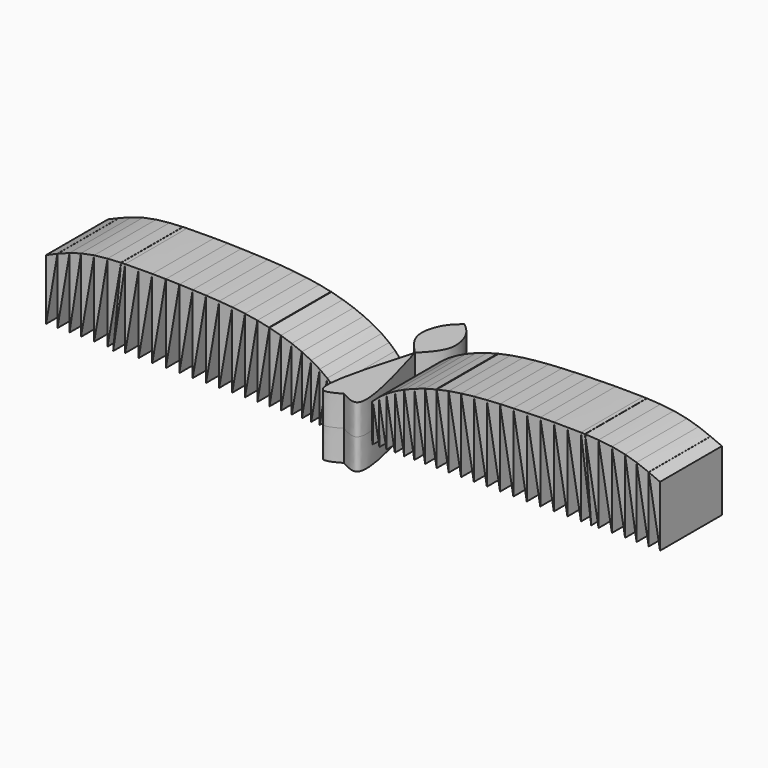
from build123d import *

# Parameters (mm, degrees)
F1_DEPTH      = 25.4
F3_DEPTH      = 10
F3_DEPTH_BACK = 10


with BuildPart() as f1:
    # F0 (on Front) → F1 (new body)
    with BuildSketch(Plane.XZ):
        with BuildLine():
            Line((-1.1763880996, -4.1211182252), (0, 0))
            add(Edge.make_bspline(
                [(0, 0), (-0.3668584504, 0.5580163387), (-0.7337169008, 1.1160326773), (-1.105749637, 1.6719235352)],
                knots=[0, 0, 0, 0, 0.0222381511, 0.0222381511, 0.0222381511, 0.0222381511], degree=3))
            Line((-1.105749637, 1.6719235352), (-1.1763880996, -4.1211182252))
        make_face()
        with BuildLine():
            Line((-100.7161065936, -4.1211182252), (-97.0060472617, 17.3621014063))
            add(Edge.make_bspline(
                [(-97.0060472617, 17.3621014063), (-98.2503658006, 16.8498970281), (-99.4832361971, 16.3153815871), (-100.7161065936, 15.7808661461)],
                knots=[0.9540792762, 0.9540792762, 0.9540792762, 0.9540792762, 1, 1, 1, 1], degree=3))
            Line((-100.7161065936, 15.7808661461), (-100.7161065936, -4.1211182252))
        make_face()
        with BuildLine():
            add(Edge.make_bspline(
                [(-97.0009558759, 17.3641970452), (-97.0026530258, 17.3634985404), (-97.0043501544, 17.3627999941), (-97.0060472617, 17.3621014063)],
                knots=[0.9540166456, 0.9540166456, 0.9540166456, 0.9540166456, 0.9540792762, 0.9540792762, 0.9540792762, 0.9540792762], degree=3))
            Line((-97.0009558759, 17.3641970452), (-97.0009558759, 17.3915832416))
            Line((-97.0009558759, 17.3915832416), (-97.0060472617, 17.3621014063))
        make_face()
        with BuildLine():
            Line((-97.0009558759, -4.1211182252), (-93.029095846, 18.878066891))
            add(Edge.make_bspline(
                [(-93.029095846, 18.878066891), (-94.3745357804, 18.4153184099), (-95.6940683223, 17.9020795139), (-97.0009558759, 17.3641970452)],
                knots=[0.9057880663, 0.9057880663, 0.9057880663, 0.9057880663, 0.9540166456, 0.9540166456, 0.9540166456, 0.9540166456], degree=3))
            Line((-97.0009558759, 17.3641970452), (-97.0009558759, -4.1211182252))
        make_face()
        with BuildLine():
            Line((-93.029095846, -4.1211182252), (-89.257389307, 20.0025010854))
            add(Edge.make_bspline(
                [(-89.257389307, 20.0025010854), (-90.5431419773, 19.6832662223), (-91.7969823305, 19.301838063), (-93.029095846, 18.878066891)],
                knots=[0.8616217807, 0.8616217807, 0.8616217807, 0.8616217807, 0.9057880663, 0.9057880663, 0.9057880663, 0.9057880663], degree=3))
            Line((-93.029095846, 18.878066891), (-93.029095846, -4.1211182252))
        make_face()
        with BuildLine():
            Line((-89.257389307, -4.1211182252), (-84.9467891064, 20.8395529036))
            add(Edge.make_bspline(
                [(-84.9467891064, 20.8395529036), (-86.4246845841, 20.6229885219), (-87.8598872507, 20.3494817979), (-89.257389307, 20.0025010854)],
                knots=[0.8136168445, 0.8136168445, 0.8136168445, 0.8136168445, 0.8616217807, 0.8616217807, 0.8616217807, 0.8616217807], degree=3))
            Line((-89.257389307, 20.0025010854), (-89.257389307, -4.1211182252))
        make_face()
        with BuildLine():
            Line((-84.9467891064, -4.1211182252), (-80.552936651, 21.3216278022))
            add(Edge.make_bspline(
                [(-80.552936651, 21.3216278022), (-82.0601374018, 21.2039167353), (-83.5232678165, 21.0481495281), (-84.9467891064, 20.8395529036)],
                knots=[0.7673780882, 0.7673780882, 0.7673780882, 0.7673780882, 0.8136168445, 0.8136168445, 0.8136168445, 0.8136168445], degree=3))
            Line((-84.9467891064, 20.8395529036), (-84.9467891064, -4.1211182252))
        make_face()
        with BuildLine():
            Line((-80.552936651, -4.1211182252), (-76.1166435706, 21.5673816256))
            add(Edge.make_bspline(
                [(-76.1166435706, 21.5673816256), (-77.6380701415, 21.511533431), (-79.1155446376, 21.4338868675), (-80.552936651, 21.3216278022)],
                knots=[0.7232809639, 0.7232809639, 0.7232809639, 0.7232809639, 0.7673780882, 0.7673780882, 0.7673780882, 0.7673780882], degree=3))
            Line((-80.552936651, 21.3216278022), (-80.552936651, -4.1211182252))
        make_face()
        with BuildLine():
            add(Edge.make_bspline(
                [(-76.1134197972, 21.5674999282), (-76.1144944103, 21.5674605049), (-76.1155690014, 21.5674210707), (-76.1166435706, 21.5673816256)],
                knots=[0.7232498185, 0.7232498185, 0.7232498185, 0.7232498185, 0.7232809639, 0.7232809639, 0.7232809639, 0.7232809639], degree=3))
            Line((-76.1134197972, 21.5674999282), (-76.1091553459, 21.6107424349))
            Line((-76.1091553459, 21.6107424349), (-76.1166435706, 21.5673816256))
        make_face()
        with BuildLine():
            Line((-78.7134319544, -4.7972151078), (-74.7832134366, 21.6107424349))
            add(Edge.make_bspline(
                [(-74.7832134366, 21.6107424349), (-75.2303487998, 21.5979418601), (-75.673719788, 21.5836307847), (-76.1134197972, 21.5674999282)],
                knots=[0.7105060456, 0.7105060456, 0.7105060456, 0.7105060456, 0.7232498185, 0.7232498185, 0.7232498185, 0.7232498185], degree=3))
            Line((-76.1134197972, 21.5674999282), (-78.7134319544, -4.7972151078))
        make_face()
        with BuildLine():
            Line((-70.3394321316, -4.1211182252), (-65.8823864649, 21.6875501539))
            add(Edge.make_bspline(
                [(-65.8823864649, 21.6875501539), (-68.9798437508, 21.7122171093), (-71.9567385127, 21.6916586551), (-74.7832134366, 21.6107424349)],
                knots=[0.6299488864, 0.6299488864, 0.6299488864, 0.6299488864, 0.7105060456, 0.7105060456, 0.7105060456, 0.7105060456], degree=3))
            Line((-74.7832134366, 21.6107424349), (-74.7832134366, -4.1211182252))
            Line((-74.7832134366, -4.1211182252), (-70.3394321316, 21.6107424349))
            Line((-70.3394321316, 21.6107424349), (-70.3394321316, -4.1211182252))
        make_face()
        with BuildLine():
            Line((-65.8823864649, -4.1211182252), (-61.4362583404, 21.6243317695))
            add(Edge.make_bspline(
                [(-61.4362583404, 21.6243317695), (-62.942886694, 21.65435461), (-64.4259640096, 21.6759517671), (-65.8823864649, 21.6875501539)],
                knots=[0.5920709612, 0.5920709612, 0.5920709612, 0.5920709612, 0.6299488864, 0.6299488864, 0.6299488864, 0.6299488864], degree=3))
            Line((-65.8823864649, 21.6875501539), (-65.8823864649, -4.1211182252))
        make_face()
        with BuildLine():
            Line((-61.4362583404, -4.1211182252), (-57.00897409, 21.5152157021))
            add(Edge.make_bspline(
                [(-57.00897409, 21.5152157021), (-58.5048294768, 21.5584989465), (-59.9815222371, 21.5953429946), (-61.4362583404, 21.6243317695)],
                knots=[0.5554976515, 0.5554976515, 0.5554976515, 0.5554976515, 0.5920709612, 0.5920709612, 0.5920709612, 0.5920709612], degree=3))
            Line((-61.4362583404, 21.6243317695), (-61.4362583404, -4.1211182252))
        make_face()
        with BuildLine():
            Line((-57.00897409, -4.1211182252), (-52.6063661013, 21.3723270032))
            add(Edge.make_bspline(
                [(-52.6063661013, 21.3723270032), (-52.9634714974, 21.3851474566), (-54.4436173617, 21.4367851552), (-55.9076817727, 21.4833493165), (-57.00897409, 21.5152157021)],
                knots=[0.5200360776, 0.5200360776, 0.5200360776, 0.5200360776, 0.5285713153, 0.5554976515, 0.5554976515, 0.5554976515, 0.5554976515], degree=3))
            Line((-57.00897409, 21.5152157021), (-57.00897409, -4.1211182252))
        make_face()
        with BuildLine():
            Line((-52.6063661013, -4.1211182252), (-48.2350782992, 21.1909664402))
            add(Edge.make_bspline(
                [(-48.2350782992, 21.1909664402), (-49.7024528221, 21.2621578532), (-51.1613636903, 21.3204499207), (-52.6063661013, 21.3723270032)],
                knots=[0.4854988257, 0.4854988257, 0.4854988257, 0.4854988257, 0.5200360776, 0.5200360776, 0.5200360776, 0.5200360776], degree=3))
            Line((-52.6063661013, 21.3723270032), (-52.6063661013, -4.1211182252))
        make_face()
        with BuildLine():
            Line((-48.2350782992, -4.1211182252), (-43.9073412734, 20.9387842495))
            add(Edge.make_bspline(
                [(-43.9073412734, 20.9387842495), (-45.3546246241, 21.0392545574), (-46.7989052358, 21.121288803), (-48.2350782992, 21.1909664402)],
                knots=[0.4516959552, 0.4516959552, 0.4516959552, 0.4516959552, 0.4854988257, 0.4854988257, 0.4854988257, 0.4854988257], degree=3))
            Line((-48.2350782992, 21.1909664402), (-48.2350782992, -4.1211182252))
        make_face()
        with BuildLine():
            Line((-43.9073412734, -4.1211182252), (-39.6409056802, 20.5838163031))
            add(Edge.make_bspline(
                [(-39.6409056802, 20.5838163031), (-41.0627247817, 20.7237430268), (-42.4864800783, 20.8401481658), (-43.9073412734, 20.9387842495)],
                knots=[0.4185102028, 0.4185102028, 0.4185102028, 0.4185102028, 0.4516959552, 0.4516959552, 0.4516959552, 0.4516959552], degree=3))
            Line((-43.9073412734, 20.9387842495), (-43.9073412734, -4.1211182252))
        make_face()
        with BuildLine():
            Line((-39.6409056802, -4.1211182252), (-35.4584443425, 20.0975606364))
            add(Edge.make_bspline(
                [(-35.4584443425, 20.0975606364), (-36.847669329, 20.2860134277), (-38.2433521693, 20.4462776502), (-39.6409056802, 20.5838163031)],
                knots=[0.3858908177, 0.3858908177, 0.3858908177, 0.3858908177, 0.4185102028, 0.4185102028, 0.4185102028, 0.4185102028], degree=3))
            Line((-39.6409056802, 20.5838163031), (-39.6409056802, -4.1211182252))
        make_face()
        with BuildLine():
            Line((-35.4584443425, -4.1211182252), (-31.3868971372, 19.4553087334))
            add(Edge.make_bspline(
                [(-31.3868971372, 19.4553087334), (-32.7349461088, 19.7000551576), (-34.0935785404, 19.9124122459), (-35.4584443425, 20.0975606364)],
                knots=[0.353843393, 0.353843393, 0.353843393, 0.353843393, 0.3858908177, 0.3858908177, 0.3858908177, 0.3858908177], degree=3))
            Line((-35.4584443425, 20.0975606364), (-35.4584443425, -4.1211182252))
        make_face()
        with BuildLine():
            Line((-31.3868971372, -4.1211182252), (-27.4566322, 18.6372091495))
            add(Edge.make_bspline(
                [(-27.4566322, 18.6372091495), (-27.6853733236, 18.6913344997), (-28.9850824173, 18.9920814509), (-30.2983407377, 19.2576747514), (-31.3868971372, 19.4553087334)],
                knots=[0.3224238633, 0.3224238633, 0.3224238633, 0.3224238633, 0.3279649346, 0.353843393, 0.353843393, 0.353843393, 0.353843393], degree=3))
            Line((-31.3868971372, 19.4553087334), (-31.3868971372, -4.1211182252))
        make_face()
        with BuildLine():
            add(Edge.make_bspline(
                [(-27.4291545909, 18.6307015581), (-27.4383130342, 18.632872497), (-27.4474722383, 18.6350416943), (-27.4566322, 18.6372091495)],
                knots=[0.3222019706, 0.3222019706, 0.3222019706, 0.3222019706, 0.3224238633, 0.3224238633, 0.3224238633, 0.3224238633], degree=3))
            Line((-27.4291545909, 18.6307015581), (-27.4291545909, 18.796319142))
            Line((-27.4291545909, 18.796319142), (-27.4566322, 18.6372091495))
        make_face()
        with BuildLine():
            Line((-27.4291545909, -4.1211182252), (-23.6730585041, 17.6286787373))
            add(Edge.make_bspline(
                [(-23.6730585041, 17.6286787373), (-24.9046574739, 17.9953561127), (-26.1595962961, 18.3297624796), (-27.4291545909, 18.6307015581)],
                knots=[0.291442835, 0.291442835, 0.291442835, 0.291442835, 0.3222019706, 0.3222019706, 0.3222019706, 0.3222019706], degree=3))
            Line((-27.4291545909, 18.6307015581), (-27.4291545909, -4.1211182252))
        make_face()
        with BuildLine():
            Line((-23.6730585041, -4.1211182252), (-20.119506324, 16.4558416365))
            add(Edge.make_bspline(
                [(-20.119506324, 16.4558416365), (-21.2759927957, 16.8771698242), (-22.4632653034, 17.2684934768), (-23.6730585041, 17.6286787373)],
                knots=[0.2612282977, 0.2612282977, 0.2612282977, 0.2612282977, 0.291442835, 0.291442835, 0.291442835, 0.291442835], degree=3))
            Line((-23.6730585041, 17.6286787373), (-23.6730585041, -4.1211182252))
        make_face()
        with BuildLine():
            Line((-20.119506324, -4.1211182252), (-16.7961237758, 15.1230368714))
            add(Edge.make_bspline(
                [(-16.7961237758, 15.1230368714), (-17.8687009608, 15.5957544613), (-18.9791366697, 16.0403850863), (-20.119506324, 16.4558416365)],
                knots=[0.2314348308, 0.2314348308, 0.2314348308, 0.2314348308, 0.2612282977, 0.2612282977, 0.2612282977, 0.2612282977], degree=3))
            Line((-20.119506324, 16.4558416365), (-20.119506324, -4.1211182252))
        make_face()
        with BuildLine():
            Line((-16.7961237758, -4.1211182252), (-13.729305475, 13.6373932247))
            add(Edge.make_bspline(
                [(-13.729305475, 13.6373932247), (-14.709338774, 14.1594374325), (-15.7341753139, 14.6550036851), (-16.7961237758, 15.1230368714)],
                knots=[0.2019366027, 0.2019366027, 0.2019366027, 0.2019366027, 0.2314348308, 0.2314348308, 0.2314348308, 0.2314348308], degree=3))
            Line((-16.7961237758, 15.1230368714), (-16.7961237758, -4.1211182252))
        make_face()
        with BuildLine():
            Line((-13.729305475, -4.1211182252), (-10.9449554548, 12.0017514281))
            add(Edge.make_bspline(
                [(-10.9449554548, 12.0017514281), (-11.8236806916, 12.572478577), (-12.7543217129, 13.1180388045), (-13.729305475, 13.6373932247)],
                knots=[0.1725903617, 0.1725903617, 0.1725903617, 0.1725903617, 0.2019366027, 0.2019366027, 0.2019366027, 0.2019366027], degree=3))
            Line((-13.729305475, 13.6373932247), (-13.729305475, -4.1211182252))
        make_face()
        with BuildLine():
            Line((-10.9449554548, -4.1211182252), (-8.4695109297, 10.2130240785))
            add(Edge.make_bspline(
                [(-8.4695109297, 10.2130240785), (-8.5274404209, 10.2598369496), (-9.2999848025, 10.8787848445), (-10.1315869679, 11.4734731243), (-10.9449554548, 12.0017514281)],
                knots=[0.1432112164, 0.1432112164, 0.1432112164, 0.1432112164, 0.1454267995, 0.1725903617, 0.1725903617, 0.1725903617, 0.1725903617], degree=3))
            Line((-10.9449554548, 12.0017514281), (-10.9449554548, -4.1211182252))
        make_face()
        with BuildLine():
            Line((-8.6442967877, -4.1211182252), (-6.4764666872, 8.431772714))
            add(Edge.make_bspline(
                [(-6.4764666872, 8.431772714), (-7.097294444, 9.0434003434), (-7.7584886258, 9.6384463493), (-8.4695109297, 10.2130240785)],
                knots=[0.1160173131, 0.1160173131, 0.1160173131, 0.1160173131, 0.1432112164, 0.1432112164, 0.1432112164, 0.1432112164], degree=3))
            Line((-8.4695109297, 10.2130240785), (-8.6442967877, -4.1211182252))
        make_face()
        with BuildLine():
            Line((-6.4764666872, -4.1211182252), (-4.6489323152, 6.4612791935))
            add(Edge.make_bspline(
                [(-4.6489323152, 6.4612791935), (-5.2211231915, 7.1333039001), (-5.8266852499, 7.7916204724), (-6.4764666872, 8.431772714)],
                knots=[0.0875551616, 0.0875551616, 0.0875551616, 0.0875551616, 0.1160173131, 0.1160173131, 0.1160173131, 0.1160173131], degree=3))
            Line((-6.4764666872, 8.431772714), (-6.4764666872, -4.1211182252))
        make_face()
        with BuildLine():
            Line((-4.7779706192, -4.1211182252), (-3.2518698427, 4.7158181222))
            add(Edge.make_bspline(
                [(-3.2518698427, 4.7158181222), (-3.6977926572, 5.3057573658), (-4.1612411789, 5.8884974412), (-4.6489323152, 6.4612791935)],
                knots=[0.0632962306, 0.0632962306, 0.0632962306, 0.0632962306, 0.0875551616, 0.0875551616, 0.0875551616, 0.0875551616], degree=3))
            Line((-4.6489323152, 6.4612791935), (-4.7779706192, -4.1211182252))
        make_face()
        with BuildLine():
            Line((-3.3596245635, -4.1211182252), (-2.1061829525, 3.1369763267))
            add(Edge.make_bspline(
                [(-2.1061829525, 3.1369763267), (-2.4774837797, 3.667609033), (-2.8578346028, 4.1945242036), (-3.2518698427, 4.7158181222)],
                knots=[0.0418600686, 0.0418600686, 0.0418600686, 0.0418600686, 0.0632962306, 0.0632962306, 0.0632962306, 0.0632962306], degree=3))
            Line((-3.2518698427, 4.7158181222), (-3.3596245635, -4.1211182252))
        make_face()
        with BuildLine():
            Line((-2.1061829525, -4.1211182252), (-1.105749637, 1.6719235352))
            add(Edge.make_bspline(
                [(-1.105749637, 1.6719235352), (-1.4340141437, 2.1624159583), (-1.7663070816, 2.651253592), (-2.1061829525, 3.1369763267)],
                knots=[0.0222381511, 0.0222381511, 0.0222381511, 0.0222381511, 0.0418600686, 0.0418600686, 0.0418600686, 0.0418600686], degree=3))
            Line((-2.1061829525, 3.1369763267), (-2.1061829525, -4.1211182252))
        make_face()
        with BuildLine():
            add(Edge.make_bspline(
                [(97.0060472617, 17.3621014063), (98.2503658006, 16.8498970281), (99.4832361971, 16.3153815871), (100.7161065936, 15.7808661461)],
                knots=[0.9540792762, 0.9540792762, 0.9540792762, 0.9540792762, 1, 1, 1, 1], degree=3))
            Line((97.0060472617, 17.3621014063), (100.7161065936, -4.1211182252))
            Line((100.7161065936, -4.1211182252), (100.7161065936, 15.7808661461))
        make_face()
        with BuildLine():
            Line((97.0009558759, 17.3915832416), (97.0009558759, 17.3641970452))
            add(Edge.make_bspline(
                [(97.0009558759, 17.3641970452), (97.0026530258, 17.3634985404), (97.0043501544, 17.3627999941), (97.0060472617, 17.3621014063)],
                knots=[0.9540166456, 0.9540166456, 0.9540166456, 0.9540166456, 0.9540792762, 0.9540792762, 0.9540792762, 0.9540792762], degree=3))
            Line((97.0060472617, 17.3621014063), (97.0009558759, 17.3915832416))
        make_face()
        with BuildLine():
            add(Edge.make_bspline(
                [(93.029095846, 18.878066891), (94.3745357804, 18.4153184099), (95.6940683223, 17.9020795139), (97.0009558759, 17.3641970452)],
                knots=[0.9057880663, 0.9057880663, 0.9057880663, 0.9057880663, 0.9540166456, 0.9540166456, 0.9540166456, 0.9540166456], degree=3))
            Line((93.029095846, 18.878066891), (97.0009558759, -4.1211182252))
            Line((97.0009558759, -4.1211182252), (97.0009558759, 17.3641970452))
        make_face()
        with BuildLine():
            add(Edge.make_bspline(
                [(89.257389307, 20.0025010854), (90.5431419773, 19.6832662223), (91.7969823305, 19.301838063), (93.029095846, 18.878066891)],
                knots=[0.8616217807, 0.8616217807, 0.8616217807, 0.8616217807, 0.9057880663, 0.9057880663, 0.9057880663, 0.9057880663], degree=3))
            Line((89.257389307, 20.0025010854), (93.029095846, -4.1211182252))
            Line((93.029095846, -4.1211182252), (93.029095846, 18.878066891))
        make_face()
        with BuildLine():
            add(Edge.make_bspline(
                [(84.9467891064, 20.8395529036), (86.4246845841, 20.6229885219), (87.8598872507, 20.3494817979), (89.257389307, 20.0025010854)],
                knots=[0.8136168445, 0.8136168445, 0.8136168445, 0.8136168445, 0.8616217807, 0.8616217807, 0.8616217807, 0.8616217807], degree=3))
            Line((84.9467891064, 20.8395529036), (89.257389307, -4.1211182252))
            Line((89.257389307, -4.1211182252), (89.257389307, 20.0025010854))
        make_face()
        with BuildLine():
            add(Edge.make_bspline(
                [(80.552936651, 21.3216278022), (82.0601374018, 21.2039167353), (83.5232678165, 21.0481495281), (84.9467891064, 20.8395529036)],
                knots=[0.7673780882, 0.7673780882, 0.7673780882, 0.7673780882, 0.8136168445, 0.8136168445, 0.8136168445, 0.8136168445], degree=3))
            Line((80.552936651, 21.3216278022), (84.9467891064, -4.1211182252))
            Line((84.9467891064, -4.1211182252), (84.9467891064, 20.8395529036))
        make_face()
        with BuildLine():
            add(Edge.make_bspline(
                [(76.1166435706, 21.5673816256), (77.6380701415, 21.511533431), (79.1155446376, 21.4338868675), (80.552936651, 21.3216278022)],
                knots=[0.7232809639, 0.7232809639, 0.7232809639, 0.7232809639, 0.7673780882, 0.7673780882, 0.7673780882, 0.7673780882], degree=3))
            Line((76.1166435706, 21.5673816256), (80.552936651, -4.1211182252))
            Line((80.552936651, -4.1211182252), (80.552936651, 21.3216278022))
        make_face()
        with BuildLine():
            Line((76.1091553459, 21.6107424349), (76.1125956286, 21.5675301614))
            add(Edge.make_bspline(
                [(76.1125956286, 21.5675301614), (76.1139449772, 21.5674806666), (76.1152942912, 21.5674311547), (76.1166435706, 21.5673816256)],
                knots=[0.7232418563, 0.7232418563, 0.7232418563, 0.7232418563, 0.7232809639, 0.7232809639, 0.7232809639, 0.7232809639], degree=3))
            Line((76.1166435706, 21.5673816256), (76.1091553459, 21.6107424349))
        make_face()
        with BuildLine():
            add(Edge.make_bspline(
                [(74.7832134366, 21.6107424349), (75.2300694328, 21.5979498578), (75.6731657564, 21.583648667), (76.1125956286, 21.5675301614)],
                knots=[0.7105060456, 0.7105060456, 0.7105060456, 0.7105060456, 0.7232418563, 0.7232418563, 0.7232418563, 0.7232418563], degree=3))
            Line((74.7832134366, 21.6107424349), (78.1577602029, -4.1211182252))
            Line((78.1577602029, -4.1211182252), (76.1125956286, 21.5675301614))
        make_face()
        with BuildLine():
            add(Edge.make_bspline(
                [(65.8823864649, 21.6875501539), (68.9798437508, 21.7122171093), (71.9567385127, 21.6916586551), (74.7832134366, 21.6107424349)],
                knots=[0.6299488864, 0.6299488864, 0.6299488864, 0.6299488864, 0.7105060456, 0.7105060456, 0.7105060456, 0.7105060456], degree=3))
            Line((65.8823864649, 21.6875501539), (70.3394321316, -4.1211182252))
            Line((70.3394321316, -4.1211182252), (70.3394321316, 21.6107424349))
            Line((70.3394321316, 21.6107424349), (74.7832134366, -4.1211182252))
            Line((74.7832134366, -4.1211182252), (74.7832134366, 21.6107424349))
        make_face()
        with BuildLine():
            add(Edge.make_bspline(
                [(61.4362583404, 21.6243317695), (62.942886694, 21.65435461), (64.4259640096, 21.6759517671), (65.8823864649, 21.6875501539)],
                knots=[0.5920709612, 0.5920709612, 0.5920709612, 0.5920709612, 0.6299488864, 0.6299488864, 0.6299488864, 0.6299488864], degree=3))
            Line((61.4362583404, 21.6243317695), (65.8823864649, -4.1211182252))
            Line((65.8823864649, -4.1211182252), (65.8823864649, 21.6875501539))
        make_face()
        with BuildLine():
            add(Edge.make_bspline(
                [(57.00897409, 21.5152157021), (58.5048294768, 21.5584989465), (59.9815222371, 21.5953429946), (61.4362583404, 21.6243317695)],
                knots=[0.5554976515, 0.5554976515, 0.5554976515, 0.5554976515, 0.5920709612, 0.5920709612, 0.5920709612, 0.5920709612], degree=3))
            Line((57.00897409, 21.5152157021), (61.4362583404, -4.1211182252))
            Line((61.4362583404, -4.1211182252), (61.4362583404, 21.6243317695))
        make_face()
        with BuildLine():
            add(Edge.make_bspline(
                [(52.6063661013, 21.3723270032), (52.9634714974, 21.3851474566), (54.4436173617, 21.4367851552), (55.9076817727, 21.4833493165), (57.00897409, 21.5152157021)],
                knots=[0.5200360776, 0.5200360776, 0.5200360776, 0.5200360776, 0.5285713153, 0.5554976515, 0.5554976515, 0.5554976515, 0.5554976515], degree=3))
            Line((52.6063661013, 21.3723270032), (57.00897409, -4.1211182252))
            Line((57.00897409, -4.1211182252), (57.00897409, 21.5152157021))
        make_face()
        with BuildLine():
            add(Edge.make_bspline(
                [(48.2350782992, 21.1909664402), (49.7024528221, 21.2621578532), (51.1613636903, 21.3204499207), (52.6063661013, 21.3723270032)],
                knots=[0.4854988257, 0.4854988257, 0.4854988257, 0.4854988257, 0.5200360776, 0.5200360776, 0.5200360776, 0.5200360776], degree=3))
            Line((48.2350782992, 21.1909664402), (52.6063661013, -4.1211182252))
            Line((52.6063661013, -4.1211182252), (52.6063661013, 21.3723270032))
        make_face()
        with BuildLine():
            add(Edge.make_bspline(
                [(43.9073412734, 20.9387842495), (45.3546246241, 21.0392545574), (46.7989052358, 21.121288803), (48.2350782992, 21.1909664402)],
                knots=[0.4516959552, 0.4516959552, 0.4516959552, 0.4516959552, 0.4854988257, 0.4854988257, 0.4854988257, 0.4854988257], degree=3))
            Line((43.9073412734, 20.9387842495), (48.2350782992, -4.1211182252))
            Line((48.2350782992, -4.1211182252), (48.2350782992, 21.1909664402))
        make_face()
        with BuildLine():
            add(Edge.make_bspline(
                [(39.6409056802, 20.5838163031), (41.0627247817, 20.7237430268), (42.4864800783, 20.8401481658), (43.9073412734, 20.9387842495)],
                knots=[0.4185102028, 0.4185102028, 0.4185102028, 0.4185102028, 0.4516959552, 0.4516959552, 0.4516959552, 0.4516959552], degree=3))
            Line((39.6409056802, 20.5838163031), (43.9073412734, -4.1211182252))
            Line((43.9073412734, -4.1211182252), (43.9073412734, 20.9387842495))
        make_face()
        with BuildLine():
            add(Edge.make_bspline(
                [(35.4584443425, 20.0975606364), (36.847669329, 20.2860134277), (38.2433521693, 20.4462776502), (39.6409056802, 20.5838163031)],
                knots=[0.3858908177, 0.3858908177, 0.3858908177, 0.3858908177, 0.4185102028, 0.4185102028, 0.4185102028, 0.4185102028], degree=3))
            Line((35.4584443425, 20.0975606364), (39.6409056802, -4.1211182252))
            Line((39.6409056802, -4.1211182252), (39.6409056802, 20.5838163031))
        make_face()
        with BuildLine():
            add(Edge.make_bspline(
                [(31.3868971372, 19.4553087334), (32.7349461088, 19.7000551576), (34.0935785404, 19.9124122459), (35.4584443425, 20.0975606364)],
                knots=[0.353843393, 0.353843393, 0.353843393, 0.353843393, 0.3858908177, 0.3858908177, 0.3858908177, 0.3858908177], degree=3))
            Line((31.3868971372, 19.4553087334), (35.4584443425, -4.1211182252))
            Line((35.4584443425, -4.1211182252), (35.4584443425, 20.0975606364))
        make_face()
        with BuildLine():
            add(Edge.make_bspline(
                [(27.4566322, 18.6372091495), (27.6853733236, 18.6913344997), (28.9850824173, 18.9920814509), (30.2983407377, 19.2576747514), (31.3868971372, 19.4553087334)],
                knots=[0.3224238633, 0.3224238633, 0.3224238633, 0.3224238633, 0.3279649346, 0.353843393, 0.353843393, 0.353843393, 0.353843393], degree=3))
            Line((27.4566322, 18.6372091495), (31.3868971372, -4.1211182252))
            Line((31.3868971372, -4.1211182252), (31.3868971372, 19.4553087334))
        make_face()
        with BuildLine():
            Line((27.4291545909, 18.796319142), (27.4291545909, 18.6307015581))
            add(Edge.make_bspline(
                [(27.4291545909, 18.6307015581), (27.4383130342, 18.632872497), (27.4474722383, 18.6350416943), (27.4566322, 18.6372091495)],
                knots=[0.3222019706, 0.3222019706, 0.3222019706, 0.3222019706, 0.3224238633, 0.3224238633, 0.3224238633, 0.3224238633], degree=3))
            Line((27.4566322, 18.6372091495), (27.4291545909, 18.796319142))
        make_face()
        with BuildLine():
            add(Edge.make_bspline(
                [(23.6730585041, 17.6286787373), (24.9046574739, 17.9953561127), (26.1595962961, 18.3297624796), (27.4291545909, 18.6307015581)],
                knots=[0.291442835, 0.291442835, 0.291442835, 0.291442835, 0.3222019706, 0.3222019706, 0.3222019706, 0.3222019706], degree=3))
            Line((23.6730585041, 17.6286787373), (27.4291545909, -4.1211182252))
            Line((27.4291545909, -4.1211182252), (27.4291545909, 18.6307015581))
        make_face()
        with BuildLine():
            add(Edge.make_bspline(
                [(20.119506324, 16.4558416365), (21.2759927957, 16.8771698242), (22.4632653034, 17.2684934768), (23.6730585041, 17.6286787373)],
                knots=[0.2612282977, 0.2612282977, 0.2612282977, 0.2612282977, 0.291442835, 0.291442835, 0.291442835, 0.291442835], degree=3))
            Line((20.119506324, 16.4558416365), (23.6730585041, -4.1211182252))
            Line((23.6730585041, -4.1211182252), (23.6730585041, 17.6286787373))
        make_face()
        with BuildLine():
            add(Edge.make_bspline(
                [(16.7961237758, 15.1230368714), (17.8687009608, 15.5957544613), (18.9791366697, 16.0403850863), (20.119506324, 16.4558416365)],
                knots=[0.2314348308, 0.2314348308, 0.2314348308, 0.2314348308, 0.2612282977, 0.2612282977, 0.2612282977, 0.2612282977], degree=3))
            Line((16.7961237758, 15.1230368714), (20.119506324, -4.1211182252))
            Line((20.119506324, -4.1211182252), (20.119506324, 16.4558416365))
        make_face()
        with BuildLine():
            add(Edge.make_bspline(
                [(13.729305475, 13.6373932247), (14.709338774, 14.1594374325), (15.7341753139, 14.6550036851), (16.7961237758, 15.1230368714)],
                knots=[0.2019366027, 0.2019366027, 0.2019366027, 0.2019366027, 0.2314348308, 0.2314348308, 0.2314348308, 0.2314348308], degree=3))
            Line((13.729305475, 13.6373932247), (16.7961237758, -4.1211182252))
            Line((16.7961237758, -4.1211182252), (16.7961237758, 15.1230368714))
        make_face()
        with BuildLine():
            add(Edge.make_bspline(
                [(10.9449554548, 12.0017514281), (11.8236806916, 12.572478577), (12.7543217129, 13.1180388045), (13.729305475, 13.6373932247)],
                knots=[0.1725903617, 0.1725903617, 0.1725903617, 0.1725903617, 0.2019366027, 0.2019366027, 0.2019366027, 0.2019366027], degree=3))
            Line((10.9449554548, 12.0017514281), (13.729305475, -4.1211182252))
            Line((13.729305475, -4.1211182252), (13.729305475, 13.6373932247))
        make_face()
        with BuildLine():
            add(Edge.make_bspline(
                [(8.4695109297, 10.2130240785), (8.5274404209, 10.2598369496), (9.2999848025, 10.8787848445), (10.1315869679, 11.4734731243), (10.9449554548, 12.0017514281)],
                knots=[0.1432112164, 0.1432112164, 0.1432112164, 0.1432112164, 0.1454267995, 0.1725903617, 0.1725903617, 0.1725903617, 0.1725903617], degree=3))
            Line((8.4695109297, 10.2130240785), (10.9449554548, -4.1211182252))
            Line((10.9449554548, -4.1211182252), (10.9449554548, 12.0017514281))
        make_face()
        with BuildLine():
            add(Edge.make_bspline(
                [(6.4764666872, 8.431772714), (7.097294444, 9.0434003434), (7.7584886258, 9.6384463493), (8.4695109297, 10.2130240785)],
                knots=[0.1160173131, 0.1160173131, 0.1160173131, 0.1160173131, 0.1432112164, 0.1432112164, 0.1432112164, 0.1432112164], degree=3))
            Line((6.4764666872, 8.431772714), (8.6442967877, -4.1211182252))
            Line((8.6442967877, -4.1211182252), (8.4695109297, 10.2130240785))
        make_face()
        with BuildLine():
            add(Edge.make_bspline(
                [(4.6489323152, 6.4612791935), (5.2211231915, 7.1333039001), (5.8266852499, 7.7916204724), (6.4764666872, 8.431772714)],
                knots=[0.0875551616, 0.0875551616, 0.0875551616, 0.0875551616, 0.1160173131, 0.1160173131, 0.1160173131, 0.1160173131], degree=3))
            Line((4.6489323152, 6.4612791935), (6.4764666872, -4.1211182252))
            Line((6.4764666872, -4.1211182252), (6.4764666872, 8.431772714))
        make_face()
        with BuildLine():
            add(Edge.make_bspline(
                [(3.2518698427, 4.7158181222), (3.6977926572, 5.3057573658), (4.1612411789, 5.8884974412), (4.6489323152, 6.4612791935)],
                knots=[0.0632962306, 0.0632962306, 0.0632962306, 0.0632962306, 0.0875551616, 0.0875551616, 0.0875551616, 0.0875551616], degree=3))
            Line((3.2518698427, 4.7158181222), (4.7779706192, -4.1211182252))
            Line((4.7779706192, -4.1211182252), (4.6489323152, 6.4612791935))
        make_face()
        with BuildLine():
            add(Edge.make_bspline(
                [(2.1061829525, 3.1369763267), (2.4774837797, 3.667609033), (2.8578346028, 4.1945242036), (3.2518698427, 4.7158181222)],
                knots=[0.0418600686, 0.0418600686, 0.0418600686, 0.0418600686, 0.0632962306, 0.0632962306, 0.0632962306, 0.0632962306], degree=3))
            Line((2.1061829525, 3.1369763267), (3.3596245635, -4.1211182252))
            Line((3.3596245635, -4.1211182252), (3.2518698427, 4.7158181222))
        make_face()
        with BuildLine():
            add(Edge.make_bspline(
                [(1.105749637, 1.6719235352), (1.4340141437, 2.1624159583), (1.7663070816, 2.651253592), (2.1061829525, 3.1369763267)],
                knots=[0.0222381511, 0.0222381511, 0.0222381511, 0.0222381511, 0.0418600686, 0.0418600686, 0.0418600686, 0.0418600686], degree=3))
            Line((1.105749637, 1.6719235352), (2.1061829525, -4.1211182252))
            Line((2.1061829525, -4.1211182252), (2.1061829525, 3.1369763267))
        make_face()
        with BuildLine():
            add(Edge.make_bspline(
                [(0, 0), (0.3668584504, 0.5580163387), (0.7337169008, 1.1160326773), (1.105749637, 1.6719235352)],
                knots=[0, 0, 0, 0, 0.0222381511, 0.0222381511, 0.0222381511, 0.0222381511], degree=3))
            Line((0, 0), (1.1763880996, -4.1211182252))
            Line((1.1763880996, -4.1211182252), (1.105749637, 1.6719235352))
        make_face()
    extrude(amount=F1_DEPTH)


with BuildPart() as f3:
    # F2 (on Top) → F3 (new body, two sides)
    with BuildSketch(Plane.XY) as f3_sk:
        with BuildLine():
            add(Edge.make_bspline(
                [(0, 0), (-2.4010427026, 2.5022189243), (-7.0458339937, 7.3427345284), (-4.2768858597, 16.6841573517), (-1.3181961856, 19.1756073384), (0, 20.2856324613)],
                knots=[0, 0, 0, 0, 0.3723860343, 0.7203767794, 1, 1, 1, 1], degree=3))
            Line((0, 0), (0, 20.2856324613))
        make_face()
        with BuildLine():
            Line((0, 20.2856324613), (0, 0))
            add(Edge.make_bspline(
                [(0, 0), (2.4010427026, 2.5022189243), (7.0458339937, 7.3427345284), (4.2768858597, 16.6841573517), (1.3181961856, 19.1756073384), (0, 20.2856324613)],
                knots=[0, 0, 0, 0, 0.3723860343, 0.7203767794, 1, 1, 1, 1], degree=3))
        make_face()
    extrude(amount=F3_DEPTH)
    extrude(f3_sk.sketch, amount=-F3_DEPTH_BACK)


with BuildPart() as f3b:
    # F2 (on Top) → F3, piece 2 (new body, two sides)
    with BuildSketch(Plane.XY) as f3_2_sk:
        with BuildLine():
            add(Edge.make_bspline(
                [(0, 0), (4.07777694, -14.2065492275), (9.92857227, -34.5901094613), (2.3090203759, -30.3952223351), (0, -29.1240084916)],
                knots=[0, 0, 0, 0, 0.6969611326, 1, 1, 1, 1], degree=3))
            Line((0, 0), (0, -29.1240084916))
        make_face()
        with BuildLine():
            Line((0, -29.1240084916), (0, 0))
            add(Edge.make_bspline(
                [(0, 0), (-4.07777694, -14.2065492275), (-9.92857227, -34.5901094613), (-2.3090203759, -30.3952223351), (0, -29.1240084916)],
                knots=[0, 0, 0, 0, 0.6969611326, 1, 1, 1, 1], degree=3))
        make_face()
    extrude(amount=F3_DEPTH)
    extrude(f3_2_sk.sketch, amount=-F3_DEPTH_BACK)


solid = Compound([f1.part, f3.part, f3b.part])
